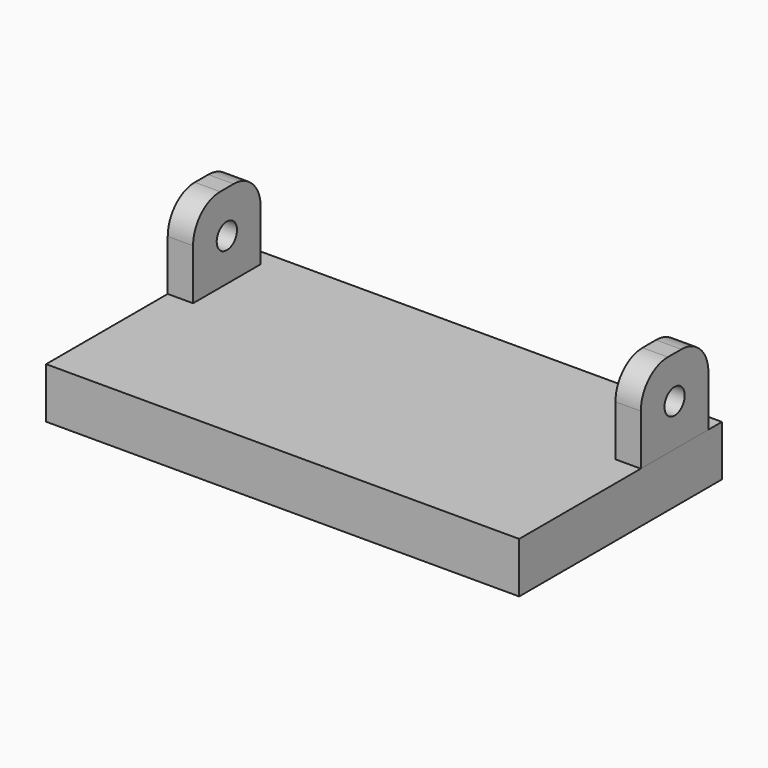
from build123d import *

# Parameters (mm, degrees)
F0_W     = 28
F0_H     = 30
F1_DEPTH = 6
F2_R     = 1.5
F3_DEPTH = 3


with BuildPart() as f1:
    # F0 (on Top) → F1 (new body)
    with BuildSketch(Plane.XY):
        Rectangle(F0_W, F0_H)
    extrude(amount=F1_DEPTH)



with BuildPart() as f3:
    # F2 (on face) → F3 (new body)
    with BuildSketch(Plane.YZ.offset(14)):
        with BuildLine():
            Line((3, 6), (13, 6))
            Line((13, 6), (13, 12))
            ThreePointArc((13, 12), (11.8284271247, 14.8284271247), (9, 16))
            Line((9, 16), (7, 16))
            ThreePointArc((7, 16), (4.1715728753, 14.8284271247), (3, 12))
            Line((3, 12), (3, 6))
        make_face()
        with Locations((8, 11)):
            Circle(F2_R, mode=Mode.SUBTRACT)
    extrude(amount=-F3_DEPTH)


with BuildPart() as f1_1:
    add(f1.part)
    # F4: F3, F1 across face
    add(f3.part.mirror(Plane(origin=(-14, 0, 3), x_dir=(0, -1, 0), z_dir=(-1, 0, 0))))
    add(f1.part.mirror(Plane(origin=(-14, 0, 3), x_dir=(0, -1, 0), z_dir=(-1, 0, 0))))


solid = Compound([f3.part, f1_1.part])
